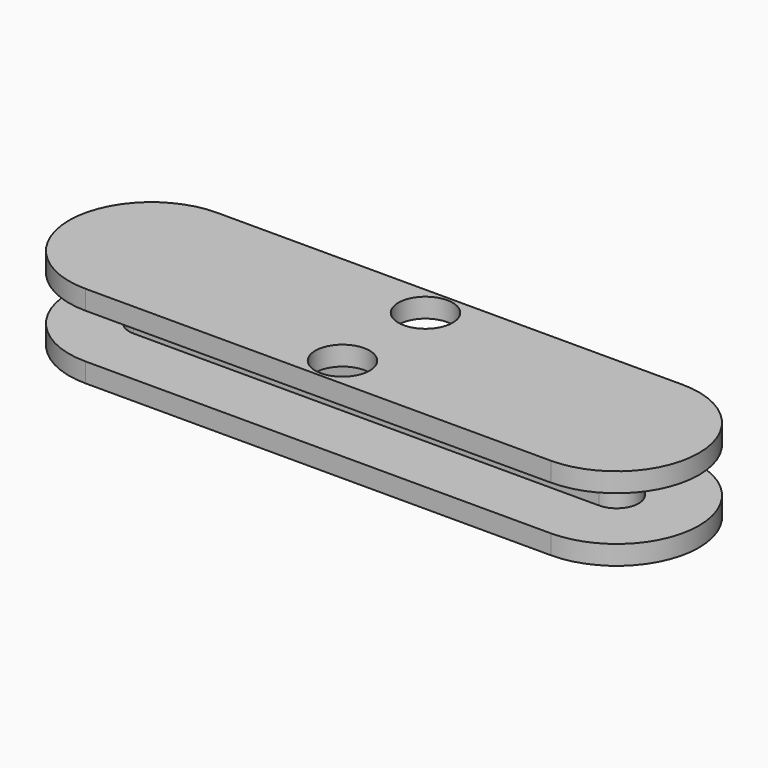
from build123d import *

# Parameters (mm, degrees)
F0_W          = 97.9224070907
F0_H          = 9.2892860994
F1_DEPTH      = 13.716
F1_DEPTH_BACK = 3.81
F0_H_2        = 12.6795382239
F2_DEPTH      = 0.254
F2_DEPTH_BACK = 3.81
F3_START      = 9.398
F3_DEPTH      = 4.064
F4_R          = 5.715
F5_DEPTH      = 4.572


with BuildPart() as f1:
    # F0 (on Top) → F1 (new body, two sides)
    with BuildSketch(Plane.XY) as f1_sk:
        Rectangle(F0_W, F0_H)
        with BuildLine():
            ThreePointArc((48.9612035453, -4.6446430497), (53.605846595, 0), (48.9612035453, 4.6446430497))
            Line((48.9612035453, 4.6446430497), (48.9612035453, -4.6446430497))
        make_face()
        with BuildLine():
            Line((-48.9612035453, -4.6446430497), (-48.9612035453, 4.6446430497))
            ThreePointArc((-48.9612035453, 4.6446430497), (-53.605846595, 0), (-48.9612035453, -4.6446430497))
        make_face()
    extrude(amount=F1_DEPTH)
    extrude(f1_sk.sketch, amount=-F1_DEPTH_BACK)

    # F0 (on Top) → F2 (join, two sides)
    with BuildSketch(Plane.XY) as f2_sk:
        with Locations((0, -10.9844121616)):
            Rectangle(F0_W, F0_H_2)
        with BuildLine():
            Line((-48.9612035453, 4.6446430497), (-48.9612035453, 17.3241812736))
            ThreePointArc((-48.9612035453, 17.3241812736), (-66.2853848189, 0), (-48.9612035453, -17.3241812736))
            Line((-48.9612035453, -17.3241812736), (-48.9612035453, -4.6446430497))
            ThreePointArc((-48.9612035453, -4.6446430497), (-53.605846595, 0), (-48.9612035453, 4.6446430497))
        make_face()
        with Locations((0, 10.9844121616)):
            Rectangle(F0_W, F0_H_2)
        with BuildLine():
            ThreePointArc((48.9612035453, -17.3241812736), (66.2853848189, 0), (48.9612035453, 17.3241812736))
            Line((48.9612035453, 17.3241812736), (48.9612035453, 4.6446430497))
            ThreePointArc((48.9612035453, 4.6446430497), (53.605846595, 0), (48.9612035453, -4.6446430497))
            Line((48.9612035453, -4.6446430497), (48.9612035453, -17.3241812736))
        make_face()
    extrude(amount=F2_DEPTH)
    extrude(f2_sk.sketch, amount=-F2_DEPTH_BACK)

    # F2_face (on face) → F3 (join)
    with BuildSketch(Plane.XY.offset(0.254).offset(F3_START)):
        with BuildLine():
            Line((-48.9612035453, -17.3241812736), (48.9612035453, -17.3241812736))
            ThreePointArc((48.9612035453, -17.3241812736), (66.2853848189, 0), (48.9612035453, 17.3241812736))
            Line((48.9612035453, 17.3241812736), (-48.9612035453, 17.3241812736))
            ThreePointArc((-48.9612035453, 17.3241812736), (-66.2853848189, 0), (-48.9612035453, -17.3241812736))
        make_face()
        with BuildLine():
            Line((48.9612035453, -4.6446430497), (-48.9612035453, -4.6446430497))
            ThreePointArc((-48.9612035453, -4.6446430497), (-53.605846595, 0), (-48.9612035453, 4.6446430497))
            Line((-48.9612035453, 4.6446430497), (48.9612035453, 4.6446430497))
            ThreePointArc((48.9612035453, 4.6446430497), (53.605846595, 0), (48.9612035453, -4.6446430497))
        make_face(mode=Mode.SUBTRACT)
    extrude(amount=F3_DEPTH)

    # F4 (on face) → F5 (cut)
    with BuildSketch(Plane.XY.offset(13.716)):
        with Locations((0, 10.922)):
            Circle(F4_R)
        with Locations((0, -10.922)):
            Circle(F4_R)
    extrude(amount=-F5_DEPTH, mode=Mode.SUBTRACT)


solid = f1.part
